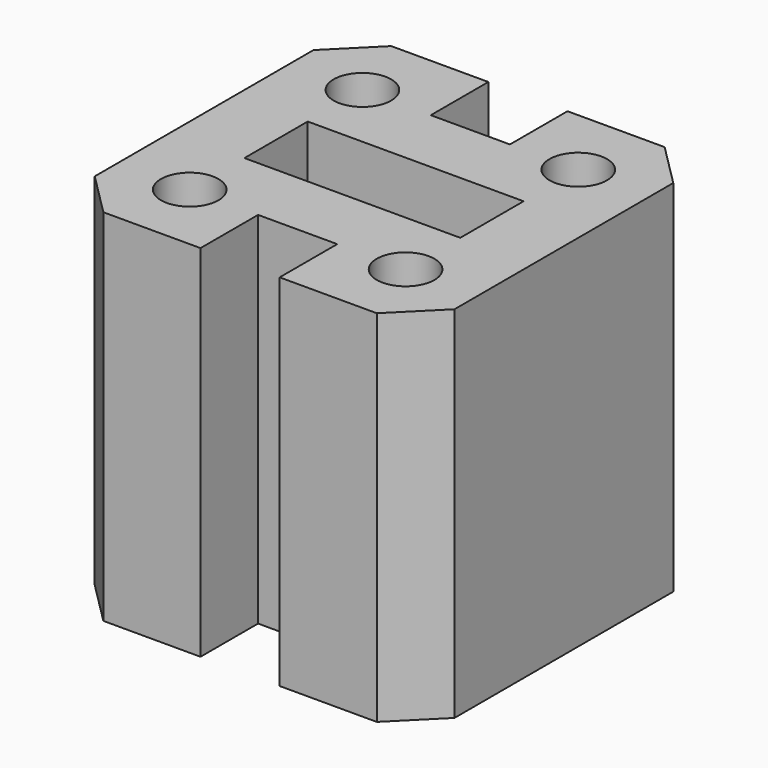
from build123d import *

# Parameters (mm, degrees)
F0_R     = 20
F0_W     = 150
F0_H     = 55
F1_DEPTH = 125


with BuildPart() as f1:
    # F0 (on Top) → F1 (new body, symmetric)
    with BuildSketch(Plane.XY):
        Polygon((27.5, -125), (95, -125), (125, -95), (125, 95), (95, 125), (27.5, 125), (27.5, 75), (-27.5, 75), (-27.5, 125), (-95, 125), (-125, 95), (-125, -95), (-95, -125), (-27.5, -125), (-27.5, -75), (27.5, -75), align=None)
        with Locations((-75, -75)):
            Circle(F0_R, mode=Mode.SUBTRACT)
        with Locations((75, -75)):
            Circle(F0_R, mode=Mode.SUBTRACT)
        with Locations((-75, 75)):
            Circle(F0_R, mode=Mode.SUBTRACT)
        Rectangle(F0_W, F0_H, mode=Mode.SUBTRACT)
        with Locations((75, 75)):
            Circle(F0_R, mode=Mode.SUBTRACT)
    extrude(amount=F1_DEPTH, both=True)


solid = f1.part
